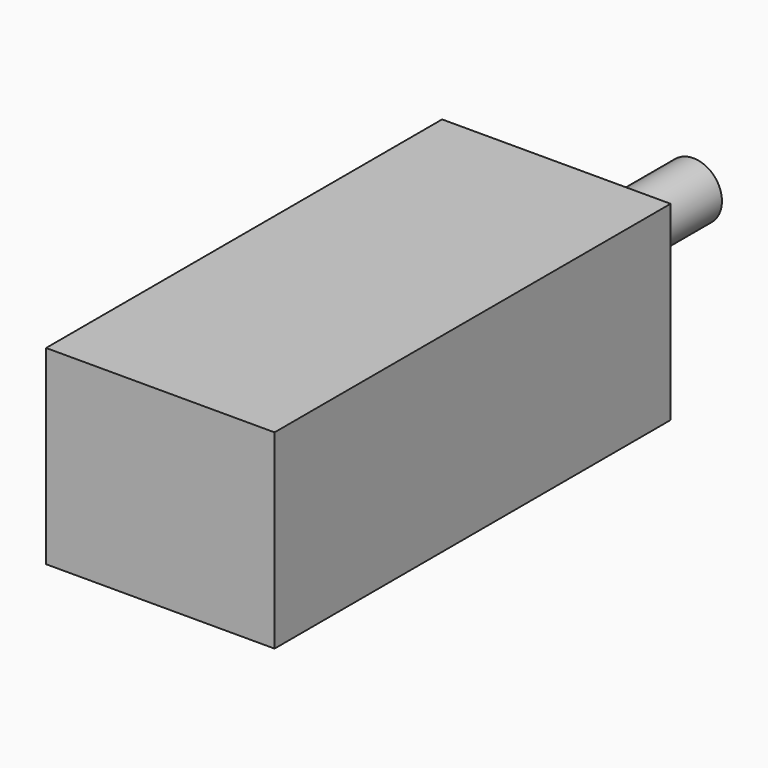
from build123d import *

# Parameters (mm, degrees)
F0_W     = 12
F0_H     = 10
F1_DEPTH = 26
F2_R     = 1.5
F3_DEPTH = 9


with BuildPart() as f1:
    # F0 (on Front) → F1 (new body)
    with BuildSketch(Plane.XZ):
        Rectangle(F0_W, F0_H)
    extrude(amount=F1_DEPTH)

    # F2 (on face) → F3 (join)
    with BuildSketch(Plane(origin=(0, 0, 0), x_dir=(-1, 0, 0), z_dir=(0, 1, 0))):
        Circle(F2_R)
    extrude(amount=F3_DEPTH)


solid = f1.part
